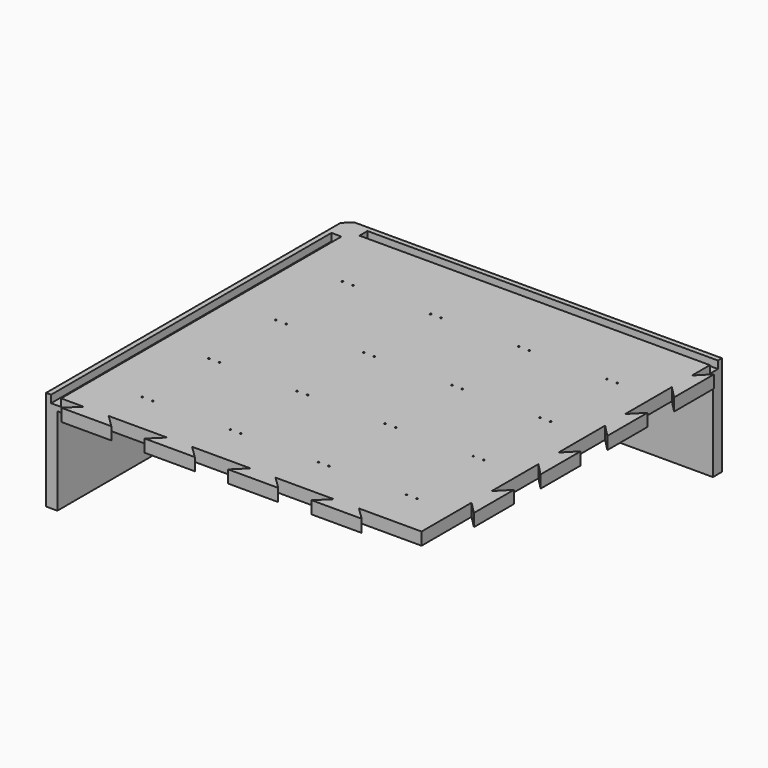
from build123d import *

# Parameters (mm, degrees)
SKETCH_W               = 150
SKETCH_H               = 150
PAD_DEPTH              = 5
SKETCH001_R            = 0.3
HOLE_DEPTH             = 25
LINEARPATTERN_COUNT    = 4
LINEARPATTERN_PITCH    = 33.333333
PAD001_DEPTH           = 5
LINEARPATTERN001_COUNT = 4
LINEARPATTERN001_PITCH = 33.333333
PAD002_DEPTH           = 5
LINEARPATTERN002_COUNT = 4
LINEARPATTERN002_PITCH = 33.333333
PAD003_DEPTH           = 35
SKETCH008_W            = 1.5
SKETCH008_H            = 26
PAD004_DEPTH           = 2.5
LINEARPATTERN003_COUNT = 3
LINEARPATTERN003_PITCH = 35
SKETCH009_W            = 125
SKETCH009_H            = 2
PAD005_DEPTH           = 2.5
SKETCH010_W            = 1.7
SKETCH010_H            = 2
POCKET_DEPTH           = 2.5
SKETCH011_W            = 100
SKETCH011_H            = 2.5
SKETCH011_W_2          = 115
PAD006_DEPTH           = 4
CHAMFER_1_ANGLE        = 45
CHAMFER_1_SIZE         = 1
CHAMFER_2_ANGLE        = 45
CHAMFER_2_SIZE         = 1
CHAMFER_3_ANGLE        = 45
CHAMFER_3_SIZE         = 1
CHAMFER_4_ANGLE        = 45
CHAMFER_4_SIZE         = 1
CHAMFER_5_ANGLE        = 45
CHAMFER_5_SIZE         = 1
CHAMFER_6_ANGLE        = 45
CHAMFER_6_SIZE         = 1
CHAMFER_7_ANGLE        = 45
CHAMFER_7_SIZE         = 1
CHAMFER_8_ANGLE        = 45
CHAMFER_8_SIZE         = 1
CHAMFER_9_ANGLE        = 45
CHAMFER_9_SIZE         = 1
CHAMFER_10_ANGLE       = 45
CHAMFER_10_SIZE        = 1
CHAMFER_11_ANGLE       = 45
CHAMFER_11_SIZE        = 1
CHAMFER_12_ANGLE       = 45
CHAMFER_12_SIZE        = 1
CHAMFER_13_ANGLE       = 45
CHAMFER_13_SIZE        = 1
CHAMFER_14_ANGLE       = 45
CHAMFER_14_SIZE        = 1
CHAMFER_15_ANGLE       = 45
CHAMFER_15_SIZE        = 1
CHAMFER_16_ANGLE       = 45
CHAMFER_16_SIZE        = 1
CHAMFER_17_ANGLE       = 45
CHAMFER_17_SIZE        = 1
CHAMFER_18_ANGLE       = 45
CHAMFER_18_SIZE        = 1
CHAMFER_19_ANGLE       = 45
CHAMFER_19_SIZE        = 1
CHAMFER_20_ANGLE       = 45
CHAMFER_20_SIZE        = 1
CHAMFER_21_ANGLE       = 45
CHAMFER_21_SIZE        = 1
CHAMFER_22_ANGLE       = 45
CHAMFER_22_SIZE        = 1
CHAMFER_23_ANGLE       = 45
CHAMFER_23_SIZE        = 1
CHAMFER_24_ANGLE       = 45
CHAMFER_24_SIZE        = 1
CHAMFER_25_ANGLE       = 45
CHAMFER_25_SIZE        = 1
CHAMFER_26_ANGLE       = 45
CHAMFER_26_SIZE        = 1
CHAMFER_27_ANGLE       = 45
CHAMFER_27_SIZE        = 1
CHAMFER_28_ANGLE       = 45
CHAMFER_28_SIZE        = 1
CHAMFER_29_ANGLE       = 45
CHAMFER_29_SIZE        = 1
CHAMFER_30_ANGLE       = 45
CHAMFER_30_SIZE        = 1
CHAMFER_31_ANGLE       = 45
CHAMFER_31_SIZE        = 1
CHAMFER_32_ANGLE       = 45
CHAMFER_32_SIZE        = 1
CHAMFER_33_ANGLE       = 45
CHAMFER_33_SIZE        = 1
CHAMFER_34_ANGLE       = 45
CHAMFER_34_SIZE        = 1
CHAMFER_35_ANGLE       = 45
CHAMFER_35_SIZE        = 1
CHAMFER_36_ANGLE       = 45
CHAMFER_36_SIZE        = 1
CHAMFER_37_ANGLE       = 45
CHAMFER_37_SIZE        = 1
CHAMFER_38_ANGLE       = 45
CHAMFER_38_SIZE        = 1
CHAMFER_39_ANGLE       = 45
CHAMFER_39_SIZE        = 1
CHAMFER_40_ANGLE       = 45
CHAMFER_40_SIZE        = 1
CHAMFER_41_ANGLE       = 45
CHAMFER_41_SIZE        = 1
CHAMFER_42_ANGLE       = 45
CHAMFER_42_SIZE        = 1
CHAMFER_43_ANGLE       = 45
CHAMFER_43_SIZE        = 1
CHAMFER_44_ANGLE       = 45
CHAMFER_44_SIZE        = 1
CHAMFER_45_ANGLE       = 45
CHAMFER_45_SIZE        = 1
CHAMFER_46_ANGLE       = 45
CHAMFER_46_SIZE        = 1
CHAMFER_47_ANGLE       = 45
CHAMFER_47_SIZE        = 1
CHAMFER001_SIZE        = 1
CHAMFER002_SIZE        = 1.45
SKETCH012_W            = 7
SKETCH012_H            = 2
POCKET001_DEPTH        = 2.5
CHAMFER003_SIZE        = 1.45
CHAMFER004_SIZE        = 2.49
SKETCH013_W            = 13
SKETCH013_H            = 13
POCKET002_DEPTH        = 3
SKETCH014_W            = 4
SKETCH014_H            = 140
SKETCH014_W_2          = 140
SKETCH014_H_2          = 4
POCKET003_DEPTH        = 3
CHAMFER005_SIZE        = 3
SKETCH015_W            = 3
SKETCH015_H            = 25
POCKET004_DEPTH        = 4.5
LINEARPATTERN004_COUNT = 9
LINEARPATTERN004_PITCH = 5


with BuildPart() as part:
    # Sketch → Pad (new body)
    with BuildSketch(Plane.XY):
        with Locations((75, 75)):
            Rectangle(SKETCH_W, SKETCH_H)
    extrude(amount=PAD_DEPTH)

    # Sketch001 (on Face6 of Pad) → Hole (cut)
    with BuildSketch(Plane.XY.offset(5)):
        with Locations((135, 16.5)):
            Circle(SKETCH001_R)
        with Locations((130.8, 16.5)):
            Circle(SKETCH001_R)
        with Locations((99.8, 16.5)):
            Circle(SKETCH001_R)
        with Locations((95.6, 16.5)):
            Circle(SKETCH001_R)
        with Locations((64.6, 16.5)):
            Circle(SKETCH001_R)
        with Locations((60.4, 16.5)):
            Circle(SKETCH001_R)
        with Locations((29.4, 16.5)):
            Circle(SKETCH001_R)
        with Locations((25.2, 16.5)):
            Circle(SKETCH001_R)
    hole = extrude(amount=-HOLE_DEPTH, mode=Mode.SUBTRACT)

    # LinearPattern: Hole ×4
    with Locations(*[(0, i * LINEARPATTERN_PITCH, 0) for i in range(1, LINEARPATTERN_COUNT)]):
        add(hole, mode=Mode.SUBTRACT)

    # Sketch002 (on Face5 of LinearPattern) → Pad001 (join)
    with BuildSketch(Plane.XY.offset(5)):
        Polygon((15, 0), (25, 0), (30, -4.898979), (10, -4.898979), align=None)
    pad001 = extrude(amount=-PAD001_DEPTH)

    # LinearPattern001: Pad001 ×4
    with Locations(*[(i * LINEARPATTERN001_PITCH, 0, 0) for i in range(1, LINEARPATTERN001_COUNT)]):
        add(pad001)

    # Sketch003 (on Face4 of LinearPattern001) → Pad002 (join)
    with BuildSketch(Plane.XY.offset(5)):
        Polygon((150, 135), (150, 125), (154.898979, 120), (154.898979, 140), align=None)
    pad002 = extrude(amount=-PAD002_DEPTH)

    # LinearPattern002: Pad002 ×4
    with Locations(*[(0, -i * LINEARPATTERN002_PITCH, 0) for i in range(1, LINEARPATTERN002_COUNT)]):
        add(pad002)

    # Sketch006 → Pad003 (join)
    with BuildSketch(Plane(origin=(0, 0, 0), x_dir=(1, 0, 0), z_dir=(0, 0, -1))):
        Polygon((0, 0), (0, -150), (150, -150), (150, -145.5), (20, -145.5), (20, -130), (4.5, -130), (4.5, 0), align=None)
    extrude(amount=PAD003_DEPTH)

    # Sketch008 → Pad004 (join)
    with BuildSketch(Plane(origin=(0, 0, 0), x_dir=(1, 0, 0), z_dir=(0, 0, -1))):
        with Locations((137.25, -32)):
            Rectangle(SKETCH008_W, SKETCH008_H)
        with Locations((140.15, -32)):
            Rectangle(SKETCH008_W, SKETCH008_H)
        with Locations((128.55, -32)):
            Rectangle(SKETCH008_W, SKETCH008_H)
        with Locations((125.65, -32)):
            Rectangle(SKETCH008_W, SKETCH008_H)
        with Locations((102.05, -32)):
            Rectangle(SKETCH008_W, SKETCH008_H)
        with Locations((104.95, -32)):
            Rectangle(SKETCH008_W, SKETCH008_H)
        with Locations((93.35, -32)):
            Rectangle(SKETCH008_W, SKETCH008_H)
        with Locations((90.45, -32)):
            Rectangle(SKETCH008_W, SKETCH008_H)
        with Locations((66.85, -32)):
            Rectangle(SKETCH008_W, SKETCH008_H)
        with Locations((58.15, -32)):
            Rectangle(SKETCH008_W, SKETCH008_H)
        with Locations((55.25, -32)):
            Rectangle(SKETCH008_W, SKETCH008_H)
        with Locations((69.75, -32)):
            Rectangle(SKETCH008_W, SKETCH008_H)
        with Locations((31.65, -32)):
            Rectangle(SKETCH008_W, SKETCH008_H)
        with Locations((22.95, -32)):
            Rectangle(SKETCH008_W, SKETCH008_H)
        with Locations((34.55, -32)):
            Rectangle(SKETCH008_W, SKETCH008_H)
        with Locations((20.05, -32)):
            Rectangle(SKETCH008_W, SKETCH008_H)
    pad004 = extrude(amount=PAD004_DEPTH)

    # LinearPattern003: Pad004 ×3
    with Locations(*[(0, i * LINEARPATTERN003_PITCH, 0) for i in range(1, LINEARPATTERN003_COUNT)]):
        add(pad004)

    # Sketch009 (on Face3 of LinearPattern003) → Pad005 (join)
    with BuildSketch(Plane(origin=(0, 0, 0), x_dir=(1, 0, 0), z_dir=(0, 0, -1))):
        with Locations((79.5, -121)):
            Rectangle(SKETCH009_W, SKETCH009_H)
        with Locations((79.5, -124.8)):
            Rectangle(SKETCH009_W, SKETCH009_H)
    extrude(amount=PAD005_DEPTH)

    # Sketch010 (on Face340 of Pad005) → Pocket (cut)
    with BuildSketch(Plane(origin=(0, 0, -2.5), x_dir=(1, 0, 0), z_dir=(0, 0, -1))):
        with Locations((138.55, -121)):
            Rectangle(SKETCH010_W, SKETCH010_H)
        with Locations((126.95, -121)):
            Rectangle(SKETCH010_W, SKETCH010_H)
        with Locations((103.35, -121)):
            Rectangle(SKETCH010_W, SKETCH010_H)
        with Locations((91.75, -121)):
            Rectangle(SKETCH010_W, SKETCH010_H)
        with Locations((68.15, -121)):
            Rectangle(SKETCH010_W, SKETCH010_H)
        with Locations((56.55, -121)):
            Rectangle(SKETCH010_W, SKETCH010_H)
        with Locations((32.95, -121)):
            Rectangle(SKETCH010_W, SKETCH010_H)
        with Locations((21.35, -121)):
            Rectangle(SKETCH010_W, SKETCH010_H)
    extrude(amount=-POCKET_DEPTH, mode=Mode.SUBTRACT)

    # Sketch011 (on Face3 of Pocket) → Pad006 (join)
    with BuildSketch(Plane(origin=(0, 0, 0), x_dir=(1, 0, 0), z_dir=(0, 0, -1))):
        with Locations((92, -129.25)):
            Rectangle(SKETCH011_W, SKETCH011_H)
        with Locations((84.5, -137.75)):
            Rectangle(SKETCH011_W_2, SKETCH011_H)
    extrude(amount=PAD006_DEPTH)

    # Chamfer 1
    chamfer_1_edges = [part.edges().sort_by_distance(p)[0] for p in [
        (140.9, 32, -2.5),
    ]]
    chamfer_1_side = part.faces().sort_by_distance((140.9, 32, -1.25))[0]
    chamfer(chamfer_1_edges, length=CHAMFER_1_SIZE, angle=CHAMFER_1_ANGLE, reference=chamfer_1_side)

    # Chamfer 2
    chamfer_2_edges = [part.edges().sort_by_distance(p)[0] for p in [
        (136.5, 32, -2.5),
    ]]
    chamfer_2_side = part.faces().sort_by_distance((136.5, 32, -1.25))[0]
    chamfer(chamfer_2_edges, length=CHAMFER_2_SIZE, angle=CHAMFER_2_ANGLE, reference=chamfer_2_side)

    # Chamfer 3
    chamfer_3_edges = [part.edges().sort_by_distance(p)[0] for p in [
        (129.3, 32, -2.5),
    ]]
    chamfer_3_side = part.faces().sort_by_distance((129.3, 32, -1.25))[0]
    chamfer(chamfer_3_edges, length=CHAMFER_3_SIZE, angle=CHAMFER_3_ANGLE, reference=chamfer_3_side)

    # Chamfer 4
    chamfer_4_edges = [part.edges().sort_by_distance(p)[0] for p in [
        (124.9, 32, -2.5),
    ]]
    chamfer_4_side = part.faces().sort_by_distance((124.9, 32, -1.25))[0]
    chamfer(chamfer_4_edges, length=CHAMFER_4_SIZE, angle=CHAMFER_4_ANGLE, reference=chamfer_4_side)

    # Chamfer 5
    chamfer_5_edges = [part.edges().sort_by_distance(p)[0] for p in [
        (105.7, 32, -2.5),
    ]]
    chamfer_5_side = part.faces().sort_by_distance((105.7, 32, -1.25))[0]
    chamfer(chamfer_5_edges, length=CHAMFER_5_SIZE, angle=CHAMFER_5_ANGLE, reference=chamfer_5_side)

    # Chamfer 6
    chamfer_6_edges = [part.edges().sort_by_distance(p)[0] for p in [
        (101.3, 32, -2.5),
    ]]
    chamfer_6_side = part.faces().sort_by_distance((101.3, 32, -1.25))[0]
    chamfer(chamfer_6_edges, length=CHAMFER_6_SIZE, angle=CHAMFER_6_ANGLE, reference=chamfer_6_side)

    # Chamfer 7
    chamfer_7_edges = [part.edges().sort_by_distance(p)[0] for p in [
        (94.1, 32, -2.5),
    ]]
    chamfer_7_side = part.faces().sort_by_distance((94.1, 32, -1.25))[0]
    chamfer(chamfer_7_edges, length=CHAMFER_7_SIZE, angle=CHAMFER_7_ANGLE, reference=chamfer_7_side)

    # Chamfer 8
    chamfer_8_edges = [part.edges().sort_by_distance(p)[0] for p in [
        (89.7, 32, -2.5),
    ]]
    chamfer_8_side = part.faces().sort_by_distance((89.7, 32, -1.25))[0]
    chamfer(chamfer_8_edges, length=CHAMFER_8_SIZE, angle=CHAMFER_8_ANGLE, reference=chamfer_8_side)

    # Chamfer 9
    chamfer_9_edges = [part.edges().sort_by_distance(p)[0] for p in [
        (70.5, 32, -2.5),
    ]]
    chamfer_9_side = part.faces().sort_by_distance((70.5, 32, -1.25))[0]
    chamfer(chamfer_9_edges, length=CHAMFER_9_SIZE, angle=CHAMFER_9_ANGLE, reference=chamfer_9_side)

    # Chamfer 10
    chamfer_10_edges = [part.edges().sort_by_distance(p)[0] for p in [
        (66.1, 32, -2.5),
    ]]
    chamfer_10_side = part.faces().sort_by_distance((66.1, 32, -1.25))[0]
    chamfer(chamfer_10_edges, length=CHAMFER_10_SIZE, angle=CHAMFER_10_ANGLE, reference=chamfer_10_side)

    # Chamfer 11
    chamfer_11_edges = [part.edges().sort_by_distance(p)[0] for p in [
        (58.9, 32, -2.5),
    ]]
    chamfer_11_side = part.faces().sort_by_distance((58.9, 32, -1.25))[0]
    chamfer(chamfer_11_edges, length=CHAMFER_11_SIZE, angle=CHAMFER_11_ANGLE, reference=chamfer_11_side)

    # Chamfer 12
    chamfer_12_edges = [part.edges().sort_by_distance(p)[0] for p in [
        (54.5, 32, -2.5),
    ]]
    chamfer_12_side = part.faces().sort_by_distance((54.5, 32, -1.25))[0]
    chamfer(chamfer_12_edges, length=CHAMFER_12_SIZE, angle=CHAMFER_12_ANGLE, reference=chamfer_12_side)

    # Chamfer 13
    chamfer_13_edges = [part.edges().sort_by_distance(p)[0] for p in [
        (35.3, 32, -2.5),
    ]]
    chamfer_13_side = part.faces().sort_by_distance((35.3, 32, -1.25))[0]
    chamfer(chamfer_13_edges, length=CHAMFER_13_SIZE, angle=CHAMFER_13_ANGLE, reference=chamfer_13_side)

    # Chamfer 14
    chamfer_14_edges = [part.edges().sort_by_distance(p)[0] for p in [
        (30.9, 32, -2.5),
    ]]
    chamfer_14_side = part.faces().sort_by_distance((30.9, 32, -1.25))[0]
    chamfer(chamfer_14_edges, length=CHAMFER_14_SIZE, angle=CHAMFER_14_ANGLE, reference=chamfer_14_side)

    # Chamfer 15
    chamfer_15_edges = [part.edges().sort_by_distance(p)[0] for p in [
        (23.7, 32, -2.5),
    ]]
    chamfer_15_side = part.faces().sort_by_distance((23.7, 32, -1.25))[0]
    chamfer(chamfer_15_edges, length=CHAMFER_15_SIZE, angle=CHAMFER_15_ANGLE, reference=chamfer_15_side)

    # Chamfer 16
    chamfer_16_edges = [part.edges().sort_by_distance(p)[0] for p in [
        (19.3, 32, -2.5),
    ]]
    chamfer_16_side = part.faces().sort_by_distance((19.3, 32, -1.25))[0]
    chamfer(chamfer_16_edges, length=CHAMFER_16_SIZE, angle=CHAMFER_16_ANGLE, reference=chamfer_16_side)

    # Chamfer 17
    chamfer_17_edges = [part.edges().sort_by_distance(p)[0] for p in [
        (19.3, 67, -2.5),
    ]]
    chamfer_17_side = part.faces().sort_by_distance((19.3, 67, -1.25))[0]
    chamfer(chamfer_17_edges, length=CHAMFER_17_SIZE, angle=CHAMFER_17_ANGLE, reference=chamfer_17_side)

    # Chamfer 18
    chamfer_18_edges = [part.edges().sort_by_distance(p)[0] for p in [
        (23.7, 67, -2.5),
    ]]
    chamfer_18_side = part.faces().sort_by_distance((23.7, 67, -1.25))[0]
    chamfer(chamfer_18_edges, length=CHAMFER_18_SIZE, angle=CHAMFER_18_ANGLE, reference=chamfer_18_side)

    # Chamfer 19
    chamfer_19_edges = [part.edges().sort_by_distance(p)[0] for p in [
        (30.9, 67, -2.5),
    ]]
    chamfer_19_side = part.faces().sort_by_distance((30.9, 67, -1.25))[0]
    chamfer(chamfer_19_edges, length=CHAMFER_19_SIZE, angle=CHAMFER_19_ANGLE, reference=chamfer_19_side)

    # Chamfer 20
    chamfer_20_edges = [part.edges().sort_by_distance(p)[0] for p in [
        (35.3, 67, -2.5),
    ]]
    chamfer_20_side = part.faces().sort_by_distance((35.3, 67, -1.25))[0]
    chamfer(chamfer_20_edges, length=CHAMFER_20_SIZE, angle=CHAMFER_20_ANGLE, reference=chamfer_20_side)

    # Chamfer 21
    chamfer_21_edges = [part.edges().sort_by_distance(p)[0] for p in [
        (54.5, 67, -2.5),
    ]]
    chamfer_21_side = part.faces().sort_by_distance((54.5, 67, -1.25))[0]
    chamfer(chamfer_21_edges, length=CHAMFER_21_SIZE, angle=CHAMFER_21_ANGLE, reference=chamfer_21_side)

    # Chamfer 22
    chamfer_22_edges = [part.edges().sort_by_distance(p)[0] for p in [
        (58.9, 67, -2.5),
    ]]
    chamfer_22_side = part.faces().sort_by_distance((58.9, 67, -1.25))[0]
    chamfer(chamfer_22_edges, length=CHAMFER_22_SIZE, angle=CHAMFER_22_ANGLE, reference=chamfer_22_side)

    # Chamfer 23
    chamfer_23_edges = [part.edges().sort_by_distance(p)[0] for p in [
        (66.1, 67, -2.5),
    ]]
    chamfer_23_side = part.faces().sort_by_distance((66.1, 67, -1.25))[0]
    chamfer(chamfer_23_edges, length=CHAMFER_23_SIZE, angle=CHAMFER_23_ANGLE, reference=chamfer_23_side)

    # Chamfer 24
    chamfer_24_edges = [part.edges().sort_by_distance(p)[0] for p in [
        (70.5, 67, -2.5),
    ]]
    chamfer_24_side = part.faces().sort_by_distance((70.5, 67, -1.25))[0]
    chamfer(chamfer_24_edges, length=CHAMFER_24_SIZE, angle=CHAMFER_24_ANGLE, reference=chamfer_24_side)

    # Chamfer 25
    chamfer_25_edges = [part.edges().sort_by_distance(p)[0] for p in [
        (89.7, 67, -2.5),
    ]]
    chamfer_25_side = part.faces().sort_by_distance((89.7, 67, -1.25))[0]
    chamfer(chamfer_25_edges, length=CHAMFER_25_SIZE, angle=CHAMFER_25_ANGLE, reference=chamfer_25_side)

    # Chamfer 26
    chamfer_26_edges = [part.edges().sort_by_distance(p)[0] for p in [
        (94.1, 67, -2.5),
    ]]
    chamfer_26_side = part.faces().sort_by_distance((94.1, 67, -1.25))[0]
    chamfer(chamfer_26_edges, length=CHAMFER_26_SIZE, angle=CHAMFER_26_ANGLE, reference=chamfer_26_side)

    # Chamfer 27
    chamfer_27_edges = [part.edges().sort_by_distance(p)[0] for p in [
        (101.3, 67, -2.5),
    ]]
    chamfer_27_side = part.faces().sort_by_distance((101.3, 67, -1.25))[0]
    chamfer(chamfer_27_edges, length=CHAMFER_27_SIZE, angle=CHAMFER_27_ANGLE, reference=chamfer_27_side)

    # Chamfer 28
    chamfer_28_edges = [part.edges().sort_by_distance(p)[0] for p in [
        (124.9, 67, -2.5),
    ]]
    chamfer_28_side = part.faces().sort_by_distance((124.9, 67, -1.25))[0]
    chamfer(chamfer_28_edges, length=CHAMFER_28_SIZE, angle=CHAMFER_28_ANGLE, reference=chamfer_28_side)

    # Chamfer 29
    chamfer_29_edges = [part.edges().sort_by_distance(p)[0] for p in [
        (129.3, 67, -2.5),
    ]]
    chamfer_29_side = part.faces().sort_by_distance((129.3, 67, -1.25))[0]
    chamfer(chamfer_29_edges, length=CHAMFER_29_SIZE, angle=CHAMFER_29_ANGLE, reference=chamfer_29_side)

    # Chamfer 30
    chamfer_30_edges = [part.edges().sort_by_distance(p)[0] for p in [
        (136.5, 67, -2.5),
    ]]
    chamfer_30_side = part.faces().sort_by_distance((136.5, 67, -1.25))[0]
    chamfer(chamfer_30_edges, length=CHAMFER_30_SIZE, angle=CHAMFER_30_ANGLE, reference=chamfer_30_side)

    # Chamfer 31
    chamfer_31_edges = [part.edges().sort_by_distance(p)[0] for p in [
        (140.9, 67, -2.5),
    ]]
    chamfer_31_side = part.faces().sort_by_distance((140.9, 67, -1.25))[0]
    chamfer(chamfer_31_edges, length=CHAMFER_31_SIZE, angle=CHAMFER_31_ANGLE, reference=chamfer_31_side)

    # Chamfer 32
    chamfer_32_edges = [part.edges().sort_by_distance(p)[0] for p in [
        (140.9, 102, -2.5),
    ]]
    chamfer_32_side = part.faces().sort_by_distance((140.9, 102, -1.25))[0]
    chamfer(chamfer_32_edges, length=CHAMFER_32_SIZE, angle=CHAMFER_32_ANGLE, reference=chamfer_32_side)

    # Chamfer 33
    chamfer_33_edges = [part.edges().sort_by_distance(p)[0] for p in [
        (136.5, 102, -2.5),
    ]]
    chamfer_33_side = part.faces().sort_by_distance((136.5, 102, -1.25))[0]
    chamfer(chamfer_33_edges, length=CHAMFER_33_SIZE, angle=CHAMFER_33_ANGLE, reference=chamfer_33_side)

    # Chamfer 34
    chamfer_34_edges = [part.edges().sort_by_distance(p)[0] for p in [
        (129.3, 102, -2.5),
    ]]
    chamfer_34_side = part.faces().sort_by_distance((129.3, 102, -1.25))[0]
    chamfer(chamfer_34_edges, length=CHAMFER_34_SIZE, angle=CHAMFER_34_ANGLE, reference=chamfer_34_side)

    # Chamfer 35
    chamfer_35_edges = [part.edges().sort_by_distance(p)[0] for p in [
        (124.9, 102, -2.5),
    ]]
    chamfer_35_side = part.faces().sort_by_distance((124.9, 102, -1.25))[0]
    chamfer(chamfer_35_edges, length=CHAMFER_35_SIZE, angle=CHAMFER_35_ANGLE, reference=chamfer_35_side)

    # Chamfer 36
    chamfer_36_edges = [part.edges().sort_by_distance(p)[0] for p in [
        (105.7, 102, -2.5),
    ]]
    chamfer_36_side = part.faces().sort_by_distance((105.7, 102, -1.25))[0]
    chamfer(chamfer_36_edges, length=CHAMFER_36_SIZE, angle=CHAMFER_36_ANGLE, reference=chamfer_36_side)

    # Chamfer 37
    chamfer_37_edges = [part.edges().sort_by_distance(p)[0] for p in [
        (101.3, 102, -2.5),
    ]]
    chamfer_37_side = part.faces().sort_by_distance((101.3, 102, -1.25))[0]
    chamfer(chamfer_37_edges, length=CHAMFER_37_SIZE, angle=CHAMFER_37_ANGLE, reference=chamfer_37_side)

    # Chamfer 38
    chamfer_38_edges = [part.edges().sort_by_distance(p)[0] for p in [
        (94.1, 102, -2.5),
    ]]
    chamfer_38_side = part.faces().sort_by_distance((94.1, 102, -1.25))[0]
    chamfer(chamfer_38_edges, length=CHAMFER_38_SIZE, angle=CHAMFER_38_ANGLE, reference=chamfer_38_side)

    # Chamfer 39
    chamfer_39_edges = [part.edges().sort_by_distance(p)[0] for p in [
        (89.7, 102, -2.5),
    ]]
    chamfer_39_side = part.faces().sort_by_distance((89.7, 102, -1.25))[0]
    chamfer(chamfer_39_edges, length=CHAMFER_39_SIZE, angle=CHAMFER_39_ANGLE, reference=chamfer_39_side)

    # Chamfer 40
    chamfer_40_edges = [part.edges().sort_by_distance(p)[0] for p in [
        (70.5, 102, -2.5),
    ]]
    chamfer_40_side = part.faces().sort_by_distance((70.5, 102, -1.25))[0]
    chamfer(chamfer_40_edges, length=CHAMFER_40_SIZE, angle=CHAMFER_40_ANGLE, reference=chamfer_40_side)

    # Chamfer 41
    chamfer_41_edges = [part.edges().sort_by_distance(p)[0] for p in [
        (66.1, 102, -2.5),
    ]]
    chamfer_41_side = part.faces().sort_by_distance((66.1, 102, -1.25))[0]
    chamfer(chamfer_41_edges, length=CHAMFER_41_SIZE, angle=CHAMFER_41_ANGLE, reference=chamfer_41_side)

    # Chamfer 42
    chamfer_42_edges = [part.edges().sort_by_distance(p)[0] for p in [
        (58.9, 102, -2.5),
    ]]
    chamfer_42_side = part.faces().sort_by_distance((58.9, 102, -1.25))[0]
    chamfer(chamfer_42_edges, length=CHAMFER_42_SIZE, angle=CHAMFER_42_ANGLE, reference=chamfer_42_side)

    # Chamfer 43
    chamfer_43_edges = [part.edges().sort_by_distance(p)[0] for p in [
        (54.5, 102, -2.5),
    ]]
    chamfer_43_side = part.faces().sort_by_distance((54.5, 102, -1.25))[0]
    chamfer(chamfer_43_edges, length=CHAMFER_43_SIZE, angle=CHAMFER_43_ANGLE, reference=chamfer_43_side)

    # Chamfer 44
    chamfer_44_edges = [part.edges().sort_by_distance(p)[0] for p in [
        (35.3, 102, -2.5),
    ]]
    chamfer_44_side = part.faces().sort_by_distance((35.3, 102, -1.25))[0]
    chamfer(chamfer_44_edges, length=CHAMFER_44_SIZE, angle=CHAMFER_44_ANGLE, reference=chamfer_44_side)

    # Chamfer 45
    chamfer_45_edges = [part.edges().sort_by_distance(p)[0] for p in [
        (30.9, 102, -2.5),
    ]]
    chamfer_45_side = part.faces().sort_by_distance((30.9, 102, -1.25))[0]
    chamfer(chamfer_45_edges, length=CHAMFER_45_SIZE, angle=CHAMFER_45_ANGLE, reference=chamfer_45_side)

    # Chamfer 46
    chamfer_46_edges = [part.edges().sort_by_distance(p)[0] for p in [
        (23.7, 102, -2.5),
    ]]
    chamfer_46_side = part.faces().sort_by_distance((23.7, 102, -1.25))[0]
    chamfer(chamfer_46_edges, length=CHAMFER_46_SIZE, angle=CHAMFER_46_ANGLE, reference=chamfer_46_side)

    # Chamfer 47
    chamfer_47_edges = [part.edges().sort_by_distance(p)[0] for p in [
        (19.3, 102, -2.5),
    ]]
    chamfer_47_side = part.faces().sort_by_distance((19.3, 102, -1.25))[0]
    chamfer(chamfer_47_edges, length=CHAMFER_47_SIZE, angle=CHAMFER_47_ANGLE, reference=chamfer_47_side)

    # Chamfer001
    chamfer001_edges = [part.edges().sort_by_distance(p)[0] for p in [
        (105.7, 67, -2.5),
    ]]
    chamfer(chamfer001_edges, length=CHAMFER001_SIZE)

    # Chamfer002
    chamfer002_edges = [part.edges().sort_by_distance(p)[0] for p in [
        (140.7, 120, -2.5),
        (132.75, 120, -2.5),
        (115.15, 120, -2.5),
        (97.55, 120, -2.5),
        (79.95, 120, -2.5),
        (62.35, 120, -2.5),
        (44.75, 120, -2.5),
        (27.15, 120, -2.5),
        (18.75, 120, -2.5),
    ]]
    chamfer(chamfer002_edges, length=CHAMFER002_SIZE)

    # Sketch012 (on Face448 of Chamfer002) → Pocket001 (cut)
    with BuildSketch(Plane(origin=(0, 0, -2.5), x_dir=(1, 0, 0), z_dir=(0, 0, -1))):
        with Locations((36.5, -124.8)):
            Rectangle(SKETCH012_W, SKETCH012_H)
    extrude(amount=-POCKET001_DEPTH, mode=Mode.SUBTRACT)

    # Chamfer003
    chamfer003_edges = [part.edges().sort_by_distance(p)[0] for p in [
        (25, 125.8, -2.5),
        (91, 125.8, -2.5),
    ]]
    chamfer(chamfer003_edges, length=CHAMFER003_SIZE)

    # Chamfer004
    chamfer004_edges = [part.edges().sort_by_distance(p)[0] for p in [
        (84.5, 139, -4),
        (92, 128, -4),
    ]]
    chamfer(chamfer004_edges, length=CHAMFER004_SIZE)

    # Sketch013 (on Face294 of Chamfer004) → Pocket002 (cut)
    with BuildSketch(Plane(origin=(0, 0, -35), x_dir=(1, 0, 0), z_dir=(0, 0, -1))):
        with Locations((11.5, -138.5)):
            Rectangle(SKETCH013_W, SKETCH013_H)
    extrude(amount=-POCKET002_DEPTH, mode=Mode.SUBTRACT)

    # Sketch014 (on Face296 of Pocket002) → Pocket003 (cut)
    with BuildSketch(Plane.XY.offset(5)):
        with Locations((4, 70)):
            Rectangle(SKETCH014_W, SKETCH014_H)
        with Locations((80, 146)):
            Rectangle(SKETCH014_W_2, SKETCH014_H_2)
    extrude(amount=-POCKET003_DEPTH, mode=Mode.SUBTRACT)

    # Chamfer005
    chamfer005_edges = [part.edges().sort_by_distance(p)[0] for p in [
        (0, 150, 2.5),
    ]]
    chamfer(chamfer005_edges, length=CHAMFER005_SIZE)

    # Sketch015 (on Face5 of Chamfer005) → Pocket004 (cut)
    with BuildSketch(Plane(origin=(0, 150, 0), x_dir=(-1, 0, 0), z_dir=(0, 1, 0))):
        with Locations((-51.5, -17.5)):
            Rectangle(SKETCH015_W, SKETCH015_H)
    pocket004 = extrude(amount=-POCKET004_DEPTH, mode=Mode.SUBTRACT)

    # LinearPattern004: Pocket004 ×9
    with Locations(*[(i * LINEARPATTERN004_PITCH, 0, 0) for i in range(1, LINEARPATTERN004_COUNT)]):
        add(pocket004, mode=Mode.SUBTRACT)


solid = part.part
